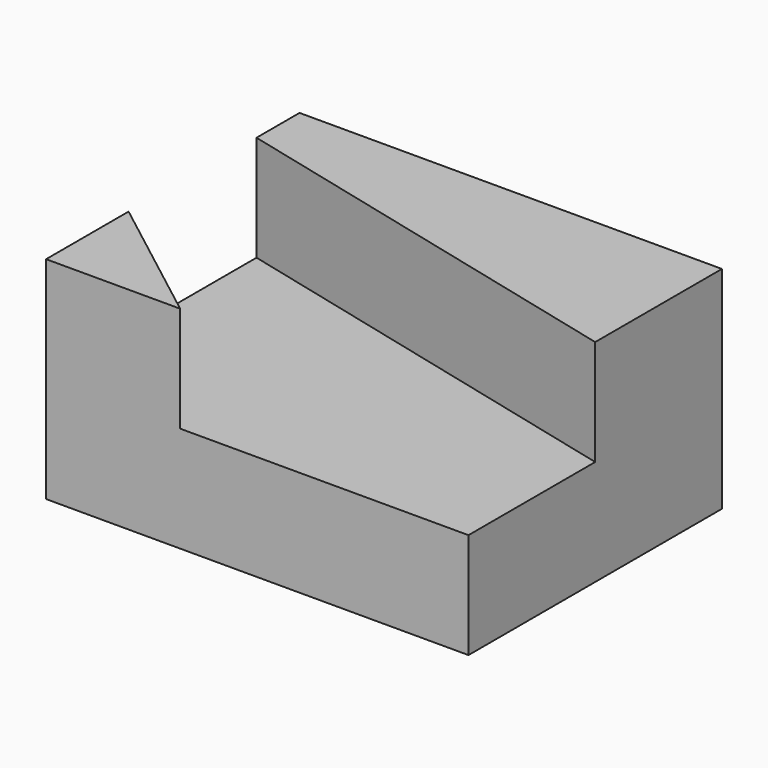
from build123d import *

# Parameters (mm, degrees)
F0_W     = 38.1
F0_H     = 25.4
F1_DEPTH = 50.8
F3_DEPTH = 12.7


with BuildPart() as f1:
    # F0 (on Right) → F1 (new body)
    with BuildSketch(Plane.YZ):
        with Locations((19.05, 12.7)):
            Rectangle(F0_W, F0_H)
    extrude(amount=F1_DEPTH)

    # F2 (on face) → F3 (cut)
    with BuildSketch(Plane.XY.offset(25.4)):
        Polygon((0, 12.404651), (16.126048, 0), (50.8, 0), (50.8, 19.05), (0, 31.631861), align=None)
    extrude(amount=-F3_DEPTH, mode=Mode.SUBTRACT)


solid = f1.part
